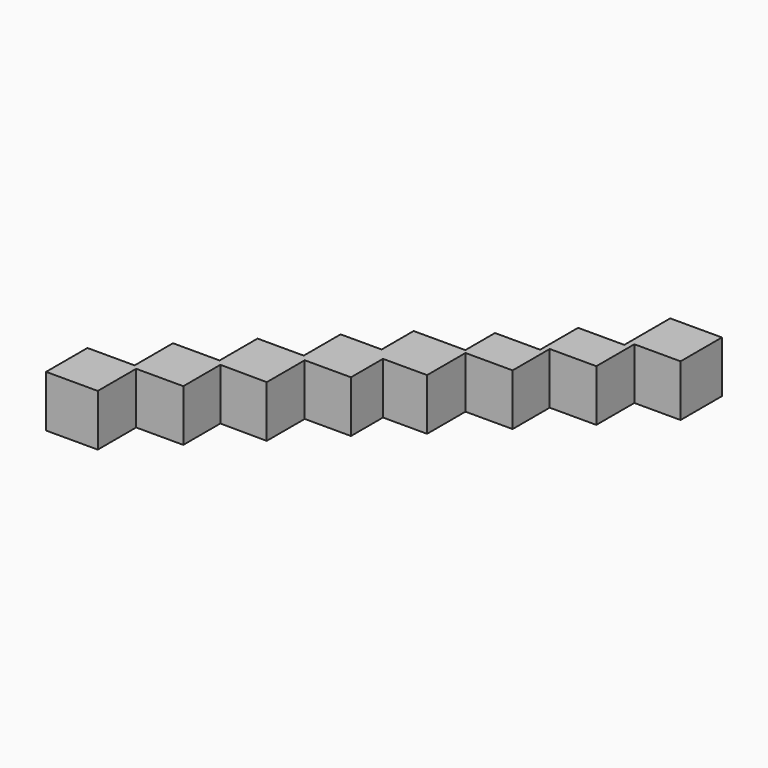
from build123d import *

# Parameters (mm, degrees)
PAD_DEPTH = 10


with BuildPart() as part:
    # Sketch → Pad (new body)
    with BuildSketch(Plane.XY):
        Polygon((-16.395918, 15.170145), (-7.275943, 15.170145), (-7.275943, 24.449917), (1.744624, 24.449917), (1.744624, 33.624443), (10.682856, 33.624443), (10.682856, 42.539872), (18.615158, 42.539872), (18.615158, 50.282926), (28.615158, 50.282926), (28.615158, 57.443561), (37.355158, 57.443561), (37.355158, 66.618087), (46.295158, 66.618087), (46.295158, 77.722926), (56.295158, 77.722926), (56.295158, 67.722926), (47.355158, 67.722926), (47.355158, 58.532926), (38.335158, 58.532926), (38.335158, 49.562926), (29.215158, 49.562926), (29.215158, 40.282926), (20.682856, 40.282926), (20.682856, 32.539872), (11.744624, 32.539872), (11.744624, 23.347767), (2.724057, 23.415477), (2.724057, 14.449917), (-6.395918, 14.449917), (-6.395918, 5.170145), (-16.395918, 5.170145), align=None)
    extrude(amount=PAD_DEPTH)


solid = part.part
